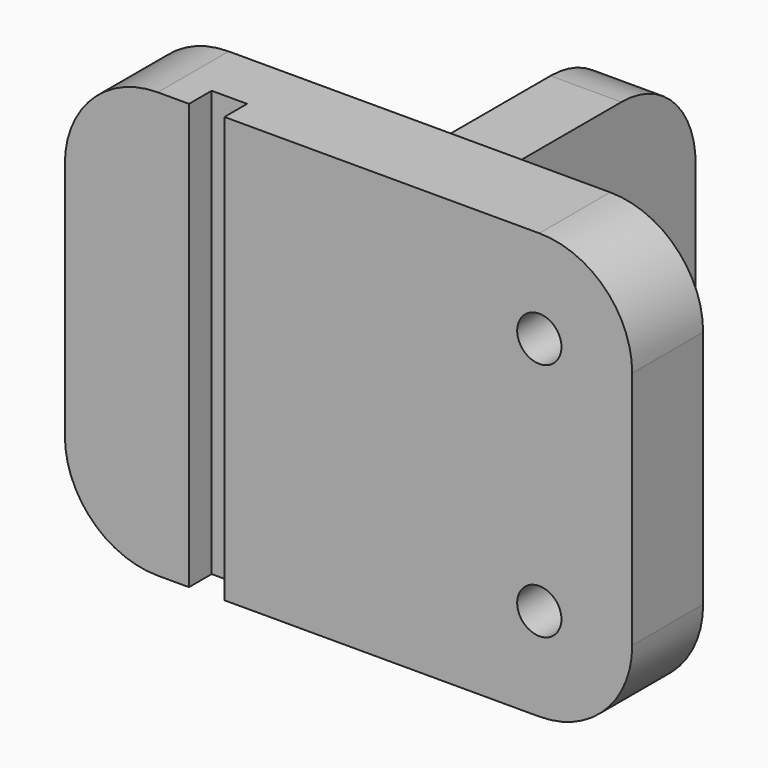
from build123d import *

# Parameters (mm, degrees)
F0_W      = 4
F0_H      = 3
F1_DEPTH  = 0.625
F2_R      = 0.655
F3_W      = 0.25
F3_H      = 3
F4_DEPTH  = 0.2
F5_R      = 0.156
F6_DEPTH  = 25
F7_W      = 0.5
F7_H      = 2.5
F8_DEPTH  = 2
F9_R      = 0.5
F10_DEPTH = 25
F11_R     = 0.655
F12_R     = 0.655


with BuildPart() as f1:
    # F0 (on Front) → F1 (new body)
    with BuildSketch(Plane.XZ):
        with Locations((-9.132301, 18.935098)):
            Rectangle(F0_W, F0_H)
    extrude(amount=F1_DEPTH)

    # F2
    f2_edges = [f1.edges().sort_by_distance(p)[0] for p in [
        (-11.132301, -0.3125, 17.435098),
        (-7.132301, -0.3125, 17.435098),
        (-7.132301, -0.3125, 20.435098),
        (-11.132301, -0.3125, 20.435098),
    ]]
    fillet(f2_edges, radius=F2_R)

    # F3 (on face) → F4 (cut)
    with BuildSketch(Plane.XZ.offset(0.625)):
        with Locations((-10.132301, 18.935098)):
            Rectangle(F3_W, F3_H)
    extrude(amount=-F4_DEPTH, mode=Mode.SUBTRACT)

    # F5 (on face) → F6 (cut)
    with BuildSketch(Plane.XZ.offset(0.625)):
        with Locations((-7.787301, 19.780098)):
            Circle(F5_R)
        with Locations((-7.787301, 18.090098)):
            Circle(F5_R)
    extrude(amount=-F6_DEPTH, mode=Mode.SUBTRACT)

    # F7 (on face) → F8 (join)
    with BuildSketch(Plane(origin=(0, 0, 0), x_dir=(-1, 0, 0), z_dir=(0, 1, 0))):
        with Locations((9.034656, 18.874316)):
            Rectangle(F7_W, F7_H)
    extrude(amount=F8_DEPTH)

    # F9 (on face) → F10 (cut)
    with BuildSketch(Plane(origin=(-9.284656, 0, 0), x_dir=(0, -1, 0), z_dir=(-1, 0, 0))):
        with Locations((-1, 18.874316)):
            Circle(F9_R)
    extrude(amount=-F10_DEPTH, mode=Mode.SUBTRACT)

    # F11
    f11_edges = [f1.edges().sort_by_distance(p)[0] for p in [
        (-9.034656, 2, 17.624316),
    ]]
    fillet(f11_edges, radius=F11_R)

    # F12
    f12_edges = [f1.edges().sort_by_distance(p)[0] for p in [
        (-9.034656, 2, 20.124316),
    ]]
    fillet(f12_edges, radius=F12_R)


solid = f1.part
